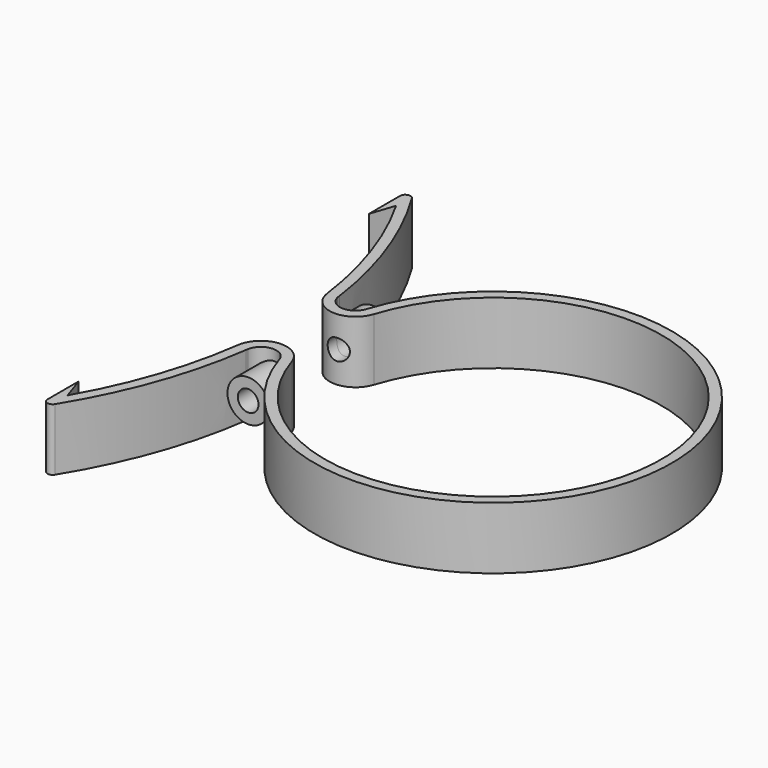
from build123d import *

# Parameters (mm, degrees)
F1_DEPTH = 12
F3_R     = 4
F3_R_2   = 2
F6_DEPTH = 100
F7_R     = 1


with BuildPart() as f1:
    # F0 (on Top) → F1 (new body)
    with BuildSketch(Plane.XY):
        with BuildLine():
            ThreePointArc((-30.9533166858, 9.9066738185), (32.5, 0), (-30.9533166858, -9.9066738185))
            ThreePointArc((-30.9533166858, -9.9066738185), (-36.1521865846, -6.4498953062), (-40.6700074334, -10.7588233268))
            ThreePointArc((-40.6700074334, -10.7588233268), (-44.1719937167, -25.6732051584), (-50.4508620887, -39.647413734))
            Line((-50.4508620887, -39.647413734), (-52, -35))
            Line((-52, -35), (-52, -45.9262987944))
            ThreePointArc((-52, -45.9262987944), (-43.3754164337, -29.3581013392), (-38.7212103105, -11.2686852631))
            ThreePointArc((-38.7212103105, -11.2686852631), (-38.6982701791, -11.0262325635), (-38.6558059993, -10.7864277375))
            ThreePointArc((-38.6558059993, -10.7864277375), (-35.9754973818, -8.4318261948), (-32.9297903997, -10.2897475302))
            ThreePointArc((-32.9297903997, -10.2897475302), (-32.8484099779, -10.5132023948), (-32.7849231086, -10.7423841283))
            ThreePointArc((-32.7849231086, -10.7423841283), (34.5, 0), (-32.7849231086, 10.7423841283))
            ThreePointArc((-32.7849231086, 10.7423841283), (-32.8484099779, 10.5132023948), (-32.9297903997, 10.2897475302))
            ThreePointArc((-32.9297903997, 10.2897475302), (-35.9754973818, 8.4318261948), (-38.6558059993, 10.7864277375))
            ThreePointArc((-38.6558059993, 10.7864277375), (-38.6982701791, 11.0262325635), (-38.7212103105, 11.2686852631))
            ThreePointArc((-38.7212103105, 11.2686852631), (-43.3754164337, 29.3581013392), (-52, 45.9262987944))
            Line((-52, 45.9262987944), (-52, 35))
            Line((-52, 35), (-50.4508620887, 39.647413734))
            ThreePointArc((-50.4508620887, 39.647413734), (-44.1719937167, 25.6732051584), (-40.6700074334, 10.7588233268))
            ThreePointArc((-40.6700074334, 10.7588233268), (-36.1521865846, 6.4498953062), (-30.9533166858, 9.9066738185))
        make_face()
        with BuildLine():
            ThreePointArc((-38.6558059993, -10.7864277375), (-38.6982701791, -11.0262325635), (-38.7212103105, -11.2686852631))
            ThreePointArc((-38.7212103105, -11.2686852631), (-38.6881506227, -11.0276049892), (-38.6558059993, -10.7864277375))
        make_face()
        with BuildLine():
            ThreePointArc((-38.6558059993, 10.7864277375), (-38.6881506227, 11.0276049892), (-38.7212103105, 11.2686852631))
            ThreePointArc((-38.7212103105, 11.2686852631), (-38.6982701791, 11.0262325635), (-38.6558059993, 10.7864277375))
        make_face()
        with BuildLine():
            ThreePointArc((-32.7849231086, -10.7423841283), (-32.8484099779, -10.5132023948), (-32.9297903997, -10.2897475302))
            ThreePointArc((-32.9297903997, -10.2897475302), (-32.8581361742, -10.5163152843), (-32.7849231086, -10.7423841283))
        make_face()
        with BuildLine():
            ThreePointArc((-32.7849231086, 10.7423841283), (-32.8581361742, 10.5163152843), (-32.9297903997, 10.2897475302))
            ThreePointArc((-32.9297903997, 10.2897475302), (-32.8484099779, 10.5132023948), (-32.7849231086, 10.7423841283))
        make_face()
    extrude(amount=F1_DEPTH)

    # F3 (on offset) → F4 (join, up to the next surface of F1)
    with BuildSketch(Plane.XZ.offset(15)):
        with Locations((-35.2927981995, 6)):
            Circle(F3_R)
        with Locations((-35.2927981995, 6)):
            Circle(F3_R_2, mode=Mode.SUBTRACT)
    extrude(until=Until.NEXT, dir=(0, 1, 0))

    # F5: F1 across plane


with BuildPart() as f1_1:
    add(f1.part)
    add(f1.part.mirror(Plane.XZ))

    # F3 (on offset) → F6 (cut)
    with BuildSketch(Plane.XZ.offset(15)):
        with Locations((-35.2927981995, 6)):
            Circle(F3_R_2)
    extrude(amount=-F6_DEPTH, mode=Mode.SUBTRACT)

    # F7
    f7_edges = [f1_1.edges().sort_by_distance(p)[0] for p in [
        (-52, -45.926299, 6),
        (-52, 45.926299, 6),
    ]]
    fillet(f7_edges, radius=F7_R)


solid = f1_1.part
